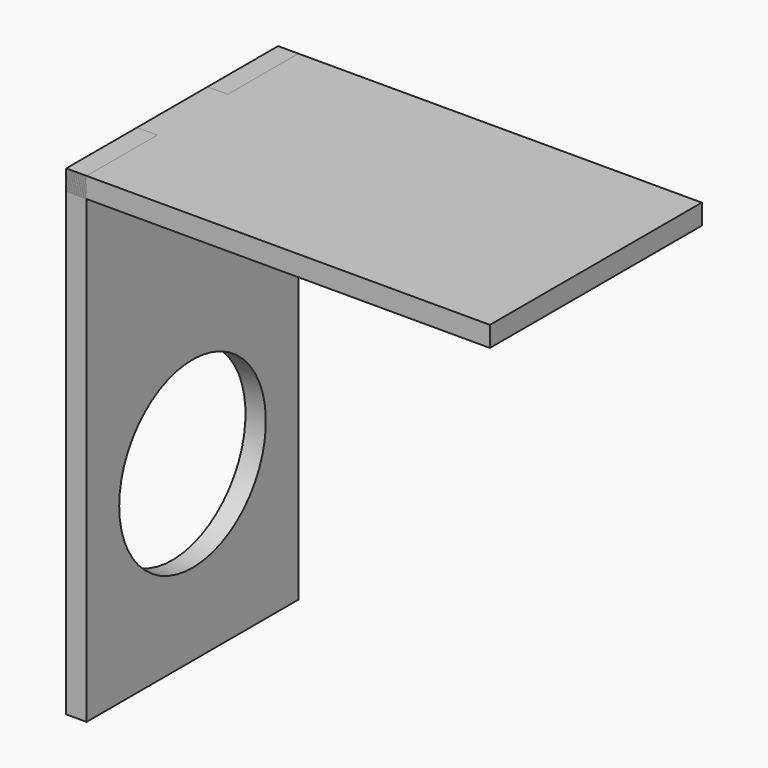
from build123d import *

# Parameters (mm, degrees)
F0_W     = 66.04
F0_H     = 41.275
F1_DEPTH = 3.175
F2_W     = 3.175
F2_H     = 41.275
F3_DEPTH = 71.755
F4_W     = 13.758333
F4_H     = 3.175
F5_DEPTH = 3.175
F8_R     = 14.2875
F9_DEPTH = 66.041


with BuildPart() as f1:
    # F0 (on Top) → F1 (new body)
    with BuildSketch(Plane.XY):
        Rectangle(F0_W, F0_H)
    extrude(amount=F1_DEPTH)


with BuildPart() as f3:
    # F2 (on face) → F3 (new body)
    with BuildSketch(Plane(origin=(0, 0, 0), x_dir=(1, 0, 0), z_dir=(0, 0, -1))):
        with Locations((-31.4325, 0)):
            Rectangle(F2_W, F2_H)
    extrude(amount=F3_DEPTH)


with BuildPart() as f5:
    # F4 (on face) → F5 (new body)
    with BuildSketch(Plane(origin=(-33.02, 0, 0), x_dir=(0, -1, 0), z_dir=(-1, 0, 0))):
        with Locations((-13.758333, 1.5875)):
            Rectangle(F4_W, F4_H)
        with Locations((13.758333, 1.5875)):
            Rectangle(F4_W, F4_H)
    extrude(amount=-F5_DEPTH)

    # F7: union F3
    add(f3.part)

    # F8 (on face) → F9 (cut, through all)
    with BuildSketch(Plane(origin=(-33.02, 0, 0), x_dir=(0, -1, 0), z_dir=(-1, 0, 0))):
        with Locations((0, -44.70908)):
            Circle(F8_R)
    extrude(amount=-F9_DEPTH, mode=Mode.SUBTRACT)


with BuildPart() as f1_1:
    add(f1.part)

    # F6: cut F5
    add(f5.part, mode=Mode.SUBTRACT)


solid = Compound([f5.part, f1_1.part])
